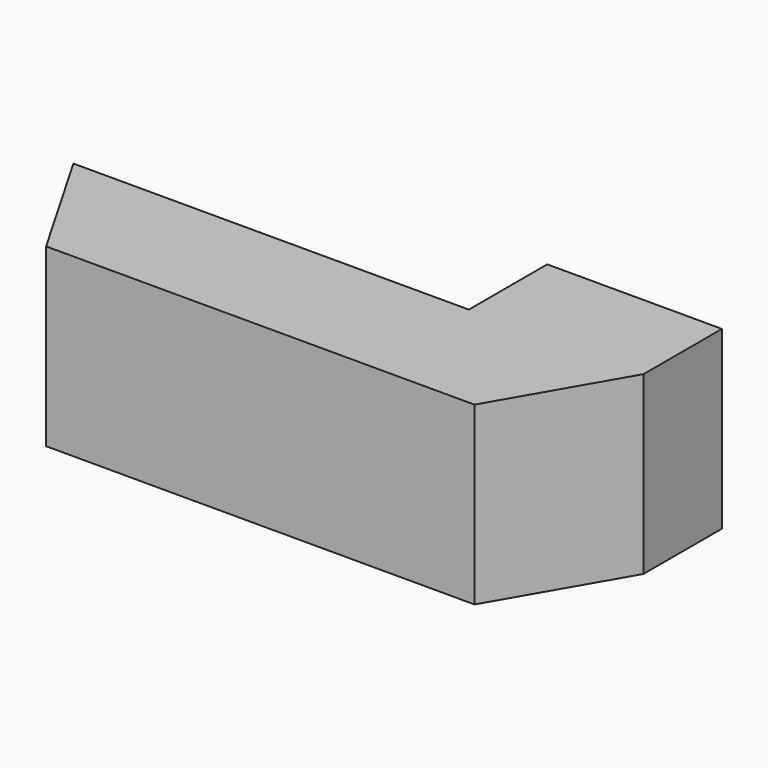
from build123d import *

# Parameters (mm, degrees)
F0_W     = 40.613208
F0_H     = 22.783019
F1_DEPTH = 40.9
F4_DEPTH = 11.6
F5_W     = 16.923557
F5_H     = 23.111026
F6_DEPTH = 40.6


with BuildPart() as f1:
    # F0 (on Top) → F1 (new body)
    with BuildSketch(Plane.XY):
        Polygon((25.655661, 14.264151), (-66.268869, 14.264151), (-49.798045, -14.264151), (49.798045, -14.264151), (66.268869, 14.264151), align=None)
        with Locations((45.962265, 25.65566)):
            Rectangle(F0_W, F0_H)
    extrude(amount=F1_DEPTH)

    # F5 (on face) → F6 (cut)
    with BuildSketch(Plane(origin=(25.655661, 0, 0), x_dir=(0, -1, 0), z_dir=(-1, 0, 0))):
        with Locations((-22.725929, 20.333911)):
            Rectangle(F5_W, F5_H)
    extrude(amount=-F6_DEPTH, mode=Mode.SUBTRACT)


with BuildPart() as f4:
    # F3 (on offset) → F4 (new body, symmetric)
    with BuildSketch(Plane.XY.offset(21.2)):
        Polygon((-43.287739, 25.358491), (-43.287739, 14.462264), (-9.806605, 14.264151), (-32.589626, 25.358491), align=None)
    extrude(amount=F4_DEPTH, both=True)


solid = Compound([f1.part, f4.part])
